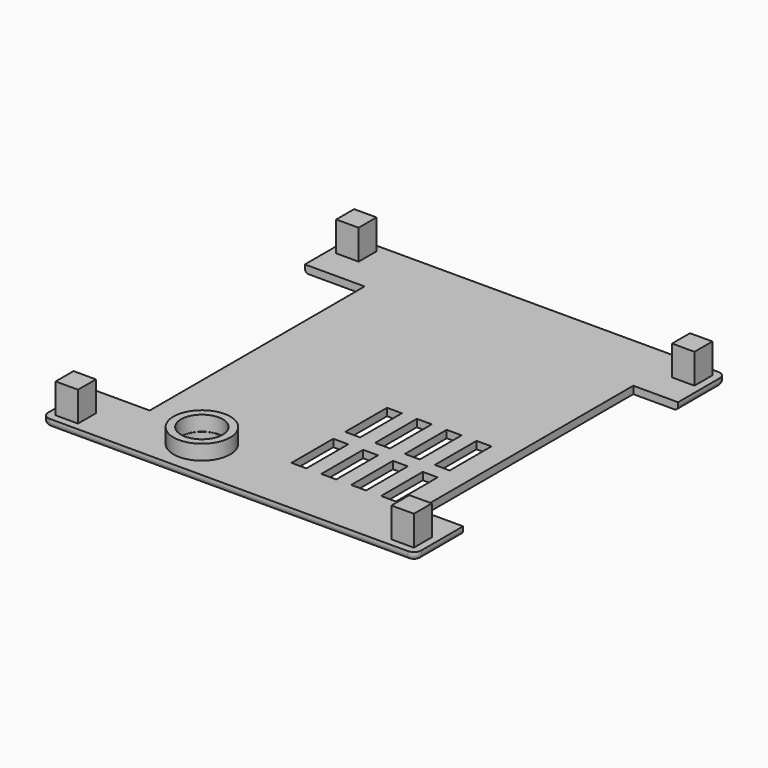
from build123d import *

# Parameters (mm, degrees)
SKETCH_W        = 50
SKETCH_H        = 52
PAD_DEPTH       = 1
SKETCH001_W     = 3
SKETCH001_H     = 3
PAD001_DEPTH    = 4
FILLET_R        = 1
FILLET001_R     = 1
FILLET002_R     = 1
FILLET003_R     = 1
SKETCH002_R     = 2.75
POCKET_DEPTH    = 1
SKETCH003_W     = 2
SKETCH003_H     = 7
POCKET001_DEPTH = 1
FILLET004_R     = 0.5
SKETCH004_R     = 3.8
PAD002_DEPTH    = 2
SKETCH005_R     = 2.8
POCKET002_DEPTH = 2
SKETCH006_W     = 8
SKETCH006_H     = 36
POCKET003_DEPTH = 1
SKETCH007_W     = 6
SKETCH007_H     = 36
POCKET004_DEPTH = 1


with BuildPart() as part:
    # Sketch → Pad (new body)
    with BuildSketch(Plane.XY):
        Rectangle(SKETCH_W, SKETCH_H)
    extrude(amount=PAD_DEPTH)

    # Sketch001 (on Face6 of Pad) → Pad001 (join)
    with BuildSketch(Plane.XY.offset(1)):
        with Locations((-22.5, 23.5)):
            Rectangle(SKETCH001_W, SKETCH001_H)
        with Locations((22.5, 23.5)):
            Rectangle(SKETCH001_W, SKETCH001_H)
        with Locations((-22.5, -23.5)):
            Rectangle(SKETCH001_W, SKETCH001_H)
        with Locations((22.5, -23.5)):
            Rectangle(SKETCH001_W, SKETCH001_H)
    extrude(amount=PAD001_DEPTH)

    # Fillet
    fillet_edges = [part.edges().sort_by_distance(p)[0] for p in [
        (-25, -26, 0.5),
    ]]
    fillet(fillet_edges, radius=FILLET_R)

    # Fillet001
    fillet001_edges = [part.edges().sort_by_distance(p)[0] for p in [
        (25, -26, 0.5),
    ]]
    fillet(fillet001_edges, radius=FILLET001_R)

    # Fillet002
    fillet002_edges = [part.edges().sort_by_distance(p)[0] for p in [
        (-25, 26, 0.5),
    ]]
    fillet(fillet002_edges, radius=FILLET002_R)

    # Fillet003
    fillet003_edges = [part.edges().sort_by_distance(p)[0] for p in [
        (25, 26, 0.5),
    ]]
    fillet(fillet003_edges, radius=FILLET003_R)

    # Sketch002 (on Face1 of Fillet003) → Pocket (cut)
    with BuildSketch(Plane(origin=(0, 0, 0), x_dir=(1, 0, 0), z_dir=(0, 0, -1))):
        with Locations((-8, 20.5)):
            Circle(SKETCH002_R)
    extrude(amount=-POCKET_DEPTH, mode=Mode.SUBTRACT)

    # Sketch003 (on Face11 of Pocket) → Pocket001 (cut)
    with BuildSketch(Plane.XY.offset(1)):
        with Locations((15, -14.5)):
            Rectangle(SKETCH003_W, SKETCH003_H)
        with Locations((15, -5.5)):
            Rectangle(SKETCH003_W, SKETCH003_H)
        with Locations((11, -5.5)):
            Rectangle(SKETCH003_W, SKETCH003_H)
        with Locations((11, -14.5)):
            Rectangle(SKETCH003_W, SKETCH003_H)
        with Locations((7, -5.5)):
            Rectangle(SKETCH003_W, SKETCH003_H)
        with Locations((7, -14.5)):
            Rectangle(SKETCH003_W, SKETCH003_H)
        with Locations((3, -5.5)):
            Rectangle(SKETCH003_W, SKETCH003_H)
        with Locations((3, -14.5)):
            Rectangle(SKETCH003_W, SKETCH003_H)
    extrude(amount=-POCKET001_DEPTH, mode=Mode.SUBTRACT)

    # Fillet004
    fillet004_edges = [part.edges().sort_by_distance(p)[0] for p in [
        (0, -26, 0),
        (25, 0, 0),
        (-25, 0, 0),
        (0, 26, 0),
    ]]
    fillet(fillet004_edges, radius=FILLET004_R)

    # Sketch004 (on Face51 of Fillet004) → Pad002 (join)
    with BuildSketch(Plane.XY.offset(1)):
        with Locations((-8, -20.5)):
            Circle(SKETCH004_R)
    extrude(amount=PAD002_DEPTH)

    # Sketch005 (on Face71 of Pad002) → Pocket002 (cut)
    with BuildSketch(Plane.XY.offset(3)):
        with Locations((-8, -20.5)):
            Circle(SKETCH005_R)
    extrude(amount=-POCKET002_DEPTH, mode=Mode.SUBTRACT)

    # Sketch006 (on Face51 of Pocket002) → Pocket003 (cut)
    with BuildSketch(Plane.XY.offset(1)):
        with Locations((-21, 0)):
            Rectangle(SKETCH006_W, SKETCH006_H)
    extrude(amount=-POCKET003_DEPTH, mode=Mode.SUBTRACT)

    # Sketch007 (on Face53 of Pocket003) → Pocket004 (cut)
    with BuildSketch(Plane.XY.offset(1)):
        with Locations((22, 0)):
            Rectangle(SKETCH007_W, SKETCH007_H)
    extrude(amount=-POCKET004_DEPTH, mode=Mode.SUBTRACT)


solid = part.part
